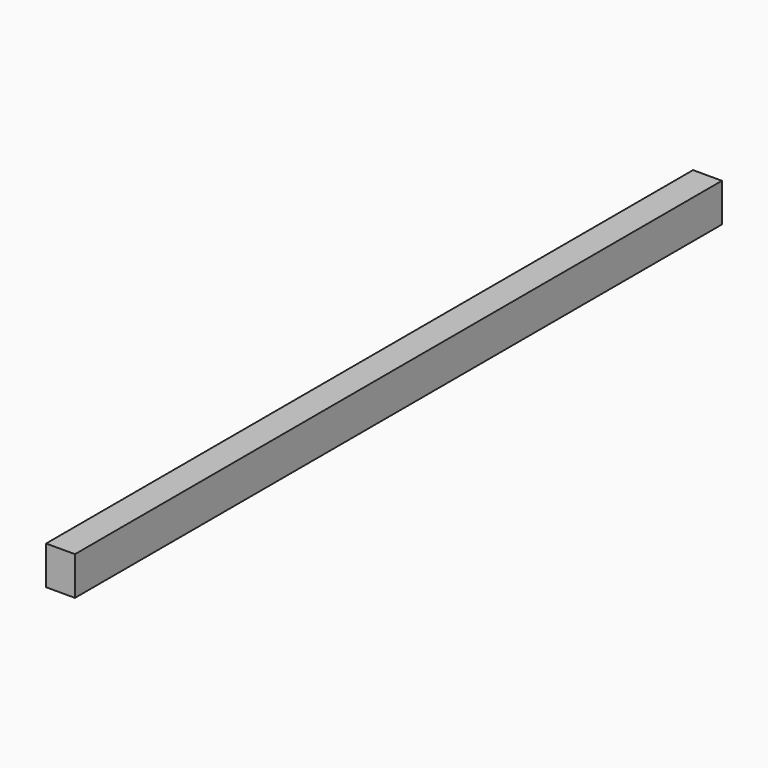
from build123d import *

# Parameters (mm, degrees)
SKETCH_W  = 19.05
SKETCH_H  = 533.4
PAD_DEPTH = 25.4


with BuildPart() as part:
    # Sketch → Pad (new body)
    with BuildSketch(Plane.XY):
        Rectangle(SKETCH_W, SKETCH_H)
    extrude(amount=PAD_DEPTH)


solid = part.part
